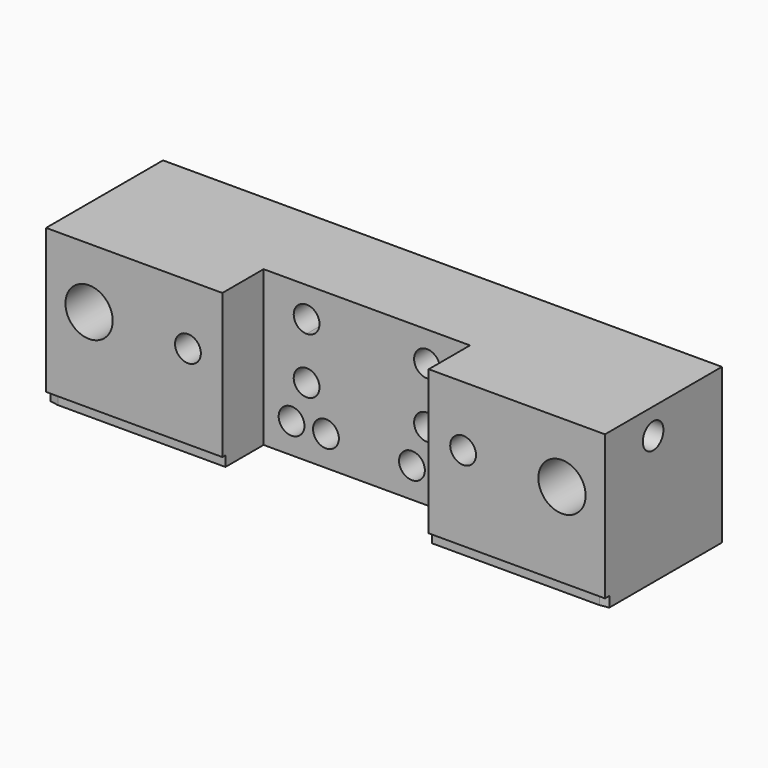
from build123d import *

# Parameters (mm, degrees)
F0_W      = 65
F0_H      = 18
F1_DEPTH  = 17
F2_W      = 24
F2_H      = 18
F3_DEPTH  = 6
F4_R      = 2.75
F5_DEPTH  = 17
F7_DEPTH  = 10
F8_W      = 65
F8_H      = 1.2
F9_DEPTH  = 0.45
F11_DEPTH = 1.2
F13_DEPTH = 6
F14_R     = 1.5
F15_DEPTH = 11
F16_R     = 1.5
F17_DEPTH = 10
F18_R     = 1.5
F19_DEPTH = 10


with BuildPart() as f1:
    # F0 (on Front) → F1 (new body)
    with BuildSketch(Plane.XZ):
        Rectangle(F0_W, F0_H)
    extrude(amount=-F1_DEPTH)

    # F2 (on face) → F3 (cut)
    with BuildSketch(Plane.XZ):
        Rectangle(F2_W, F2_H)
    extrude(amount=-F3_DEPTH, mode=Mode.SUBTRACT)

    # F4 (on face) → F5 (cut, through all)
    with BuildSketch(Plane.XZ):
        with Locations((-27.5, 2)):
            Circle(F4_R)
        with Locations((27.5, 2)):
            Circle(F4_R)
    extrude(amount=-F5_DEPTH, mode=Mode.SUBTRACT)

    # F6 (on face) → F7 (cut)
    with BuildSketch(Plane.XZ):
        with BuildLine():
            ThreePointArc((-14.5, 2), (-16, 3.5), (-17.5, 2))
            Line((-17.5, 2), (-16, 2))
            Line((-16, 2), (-14.5, 2))
        make_face()
        with BuildLine():
            ThreePointArc((17.5, 2), (16, 3.5), (14.5, 2))
            ThreePointArc((14.5, 2), (16, 0.5), (17.5, 2))
        make_face()
        with BuildLine():
            Line((-16, 2), (-17.5, 2))
            ThreePointArc((-17.5, 2), (-16, 0.5), (-14.5, 2))
            Line((-14.5, 2), (-16, 2))
        make_face()
    extrude(amount=-F7_DEPTH, mode=Mode.SUBTRACT)

    # F8 (on face) → F9 (cut)
    with BuildSketch(Plane.XZ):
        with Locations((0, -8.4)):
            Rectangle(F8_W, F8_H)
    extrude(amount=-F9_DEPTH, mode=Mode.SUBTRACT)

    # F10 (on face) → F11 (cut)
    with BuildSketch(Plane(origin=(0, 0, -9), x_dir=(1, 0, 0), z_dir=(0, 0, -1))):
        Polygon((-31.5, -0.45), (-32.5, -0.45), (-32.5, -0.626327), align=None)
        Polygon((32.5, -0.626327), (32.5, -0.45), (31.5, -0.45), align=None)
    extrude(amount=-F11_DEPTH, mode=Mode.SUBTRACT)

    # F12 (on face) → F13 (cut)
    with BuildSketch(Plane.XZ.offset(-6)):
        with BuildLine():
            ThreePointArc((-5.5, -1), (-5.93934, 0.06066), (-7, 0.5))
            ThreePointArc((-7, 0.5), (-8.06066, -2.06066), (-5.5, -1))
        make_face()
        with BuildLine():
            ThreePointArc((-5.5, 5.5), (-5.93934, 6.56066), (-7, 7))
            Line((-7, 7), (-7, 5.5))
            Line((-7, 5.5), (-7, 4))
            ThreePointArc((-7, 4), (-5.93934, 4.43934), (-5.5, 5.5))
        make_face()
        with BuildLine():
            Line((-7, 5.5), (-7, 7))
            ThreePointArc((-7, 7), (-8.5, 5.5), (-7, 4))
            Line((-7, 4), (-7, 5.5))
        make_face()
        with BuildLine():
            ThreePointArc((8.5, -1), (8.06066, 0.06066), (7, 0.5))
            ThreePointArc((7, 0.5), (5.93934, -2.06066), (8.5, -1))
        make_face()
        with BuildLine():
            ThreePointArc((8.5, 5.5), (8.06066, 6.56066), (7, 7))
            Line((7, 7), (7, 5.5))
            Line((7, 5.5), (7, 4))
            ThreePointArc((7, 4), (8.06066, 4.43934), (8.5, 5.5))
        make_face()
        with BuildLine():
            Line((7, 5.5), (7, 7))
            ThreePointArc((7, 7), (5.5, 5.5), (7, 4))
            Line((7, 4), (7, 5.5))
        make_face()
    extrude(amount=-F13_DEPTH, mode=Mode.SUBTRACT)

    # F14 (on face) → F15 (cut, through all)
    with BuildSketch(Plane.XZ.offset(-6)):
        with Locations((-8.75, -5.5)):
            Circle(F14_R)
        with Locations((-4.75, -5.5)):
            Circle(F14_R)
        with Locations((5.25, -5.5)):
            Circle(F14_R)
        with Locations((9.25, -5.5)):
            Circle(F14_R)
    extrude(amount=-F15_DEPTH, mode=Mode.SUBTRACT)

    # F16 (on face) → F17 (cut)
    with BuildSketch(Plane(origin=(0, 0, -9), x_dir=(1, 0, 0), z_dir=(0, 0, -1))):
        with BuildLine():
            ThreePointArc((29, -11), (27.5, -9.5), (26, -11))
            ThreePointArc((26, -11), (27.5, -12.5), (29, -11))
        make_face()
        with Locations((-27.5, -11)):
            Circle(F16_R)
    extrude(amount=-F17_DEPTH, mode=Mode.SUBTRACT)

    # F18 (on face) → F19 (cut)
    with BuildSketch(Plane.YZ.offset(32.5)):
        with Locations((7, 6)):
            Circle(F18_R)
    extrude(amount=-F19_DEPTH, mode=Mode.SUBTRACT)


solid = f1.part
